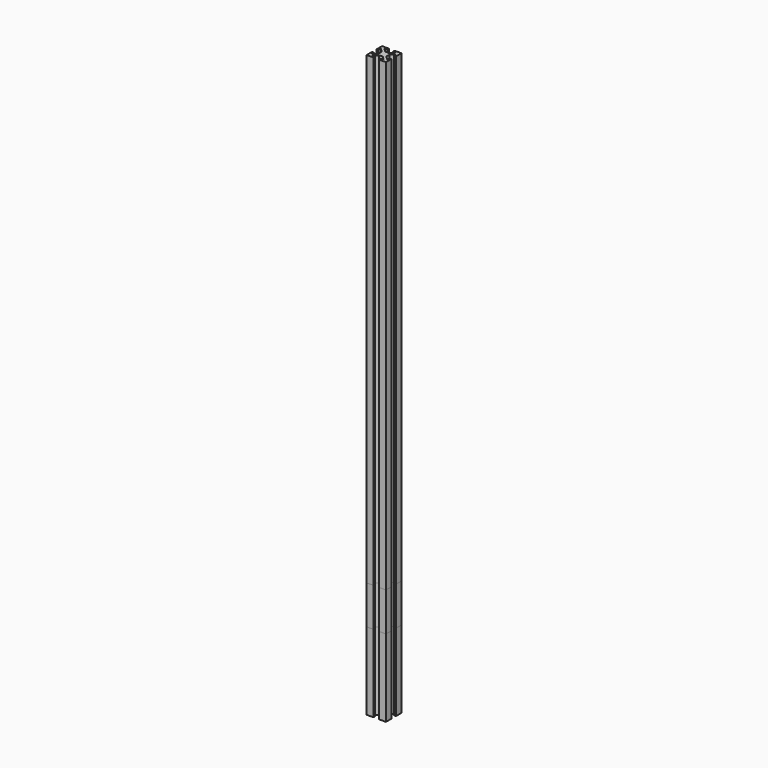
from build123d import *

# Parameters (mm, degrees)
F1_DEPTH = 200
F2_DEPTH = 150
F3_DEPTH = 100
F4_DEPTH = 300
F5_DEPTH = 60
F6_DEPTH = 40


with BuildPart() as f1:
    # F0 (on Top) → F1 (new body)
    with BuildSketch(Plane.XY):
        Polygon((3, -4), (1.5, -4), (1.5, -5), (5, -5), (5, -1.5), (4, -1.5), (4, -3), (2, -1), (2, 0), (2, 1), (4, 3), (4, 1.5), (5, 1.5), (5, 5), (1.5, 5), (1.5, 4), (3, 4), (1, 2), (0, 2), (-1, 2), (-3, 4), (-1.5, 4), (-1.5, 5), (-5, 5), (-5, 1.5), (-4, 1.5), (-4, 3), (-2, 1), (-2, 0), (-2, -1), (-4, -3), (-4, -1.5), (-5, -1.5), (-5, -5), (-1.5, -5), (-1.5, -4), (-3, -4), (-1, -2), (0, -2), (1, -2), align=None)
    extrude(amount=F1_DEPTH)


with BuildPart() as f2:
    # F0 (on Top) → F2 (new body)
    with BuildSketch(Plane.XY):
        Polygon((3, -4), (1.5, -4), (1.5, -5), (5, -5), (5, -1.5), (4, -1.5), (4, -3), (2, -1), (2, 0), (2, 1), (4, 3), (4, 1.5), (5, 1.5), (5, 5), (1.5, 5), (1.5, 4), (3, 4), (1, 2), (0, 2), (-1, 2), (-3, 4), (-1.5, 4), (-1.5, 5), (-5, 5), (-5, 1.5), (-4, 1.5), (-4, 3), (-2, 1), (-2, 0), (-2, -1), (-4, -3), (-4, -1.5), (-5, -1.5), (-5, -5), (-1.5, -5), (-1.5, -4), (-3, -4), (-1, -2), (0, -2), (1, -2), align=None)
    extrude(amount=F2_DEPTH)


with BuildPart() as f3:
    # F0 (on Top) → F3 (new body)
    with BuildSketch(Plane.XY):
        Polygon((3, -4), (1.5, -4), (1.5, -5), (5, -5), (5, -1.5), (4, -1.5), (4, -3), (2, -1), (2, 0), (2, 1), (4, 3), (4, 1.5), (5, 1.5), (5, 5), (1.5, 5), (1.5, 4), (3, 4), (1, 2), (0, 2), (-1, 2), (-3, 4), (-1.5, 4), (-1.5, 5), (-5, 5), (-5, 1.5), (-4, 1.5), (-4, 3), (-2, 1), (-2, 0), (-2, -1), (-4, -3), (-4, -1.5), (-5, -1.5), (-5, -5), (-1.5, -5), (-1.5, -4), (-3, -4), (-1, -2), (0, -2), (1, -2), align=None)
    extrude(amount=F3_DEPTH)


with BuildPart() as f4:
    # F0 (on Top) → F4 (new body)
    with BuildSketch(Plane.XY):
        Polygon((3, -4), (1.5, -4), (1.5, -5), (5, -5), (5, -1.5), (4, -1.5), (4, -3), (2, -1), (2, 0), (2, 1), (4, 3), (4, 1.5), (5, 1.5), (5, 5), (1.5, 5), (1.5, 4), (3, 4), (1, 2), (0, 2), (-1, 2), (-3, 4), (-1.5, 4), (-1.5, 5), (-5, 5), (-5, 1.5), (-4, 1.5), (-4, 3), (-2, 1), (-2, 0), (-2, -1), (-4, -3), (-4, -1.5), (-5, -1.5), (-5, -5), (-1.5, -5), (-1.5, -4), (-3, -4), (-1, -2), (0, -2), (1, -2), align=None)
    extrude(amount=F4_DEPTH)


with BuildPart() as f5:
    # F0 (on Top) → F5 (new body)
    with BuildSketch(Plane.XY):
        Polygon((3, -4), (1.5, -4), (1.5, -5), (5, -5), (5, -1.5), (4, -1.5), (4, -3), (2, -1), (2, 0), (2, 1), (4, 3), (4, 1.5), (5, 1.5), (5, 5), (1.5, 5), (1.5, 4), (3, 4), (1, 2), (0, 2), (-1, 2), (-3, 4), (-1.5, 4), (-1.5, 5), (-5, 5), (-5, 1.5), (-4, 1.5), (-4, 3), (-2, 1), (-2, 0), (-2, -1), (-4, -3), (-4, -1.5), (-5, -1.5), (-5, -5), (-1.5, -5), (-1.5, -4), (-3, -4), (-1, -2), (0, -2), (1, -2), align=None)
    extrude(amount=F5_DEPTH)


with BuildPart() as f6:
    # F0 (on Top) → F6 (new body)
    with BuildSketch(Plane.XY):
        Polygon((3, -4), (1.5, -4), (1.5, -5), (5, -5), (5, -1.5), (4, -1.5), (4, -3), (2, -1), (2, 0), (2, 1), (4, 3), (4, 1.5), (5, 1.5), (5, 5), (1.5, 5), (1.5, 4), (3, 4), (1, 2), (0, 2), (-1, 2), (-3, 4), (-1.5, 4), (-1.5, 5), (-5, 5), (-5, 1.5), (-4, 1.5), (-4, 3), (-2, 1), (-2, 0), (-2, -1), (-4, -3), (-4, -1.5), (-5, -1.5), (-5, -5), (-1.5, -5), (-1.5, -4), (-3, -4), (-1, -2), (0, -2), (1, -2), align=None)
    extrude(amount=F6_DEPTH)


solid = Compound([f1.part, f2.part, f3.part, f4.part, f5.part, f6.part])
